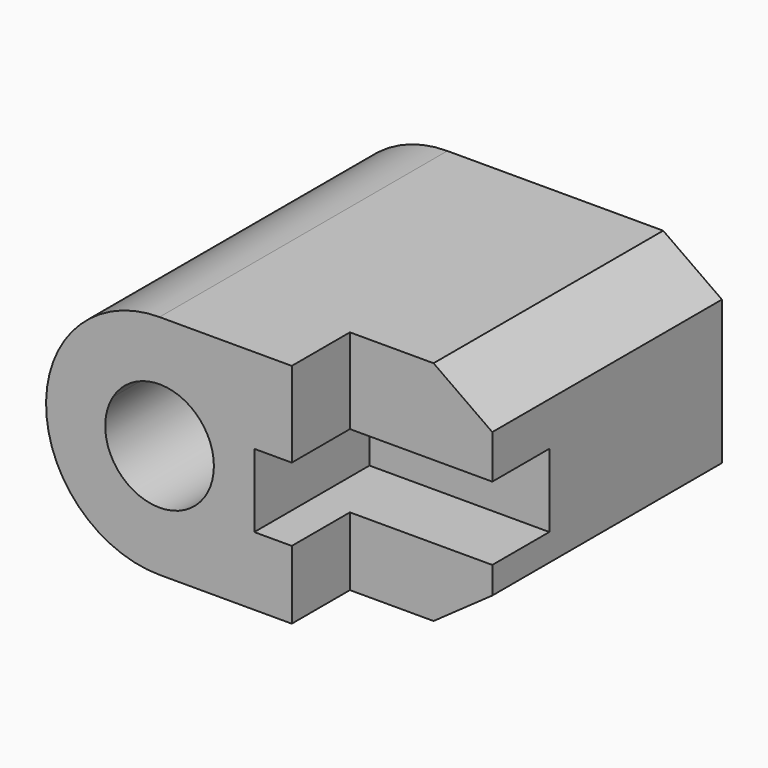
from build123d import *

# Parameters (mm, degrees)
F1_DEPTH = 25
F2_W     = 9.942237
F2_H     = 5.052494
F3_DEPTH = 15.773309
F4_W     = 10.188986
F4_H     = 5.094493
F5_DEPTH = 12.5


with BuildPart() as f1:
    # F0 (on Front) → F1 (new body)
    with BuildSketch(Plane.XZ):
        with BuildLine():
            Line((2.829923, 2.5), (7.479401, 2.5))
            ThreePointArc((7.479401, 2.5), (4.608473, 6.399485), (0, 7.886155))
            ThreePointArc((0, 7.886155), (-4.843936, 6.22316), (-7.64494, 1.935543))
            Line((-7.64494, 1.935543), (-3.242242, 1.935543))
            ThreePointArc((-3.242242, 1.935543), (-0.349506, 3.759828), (2.829923, 2.5))
        make_face()
        with BuildLine():
            Line((19.082905, 2.5), (7.479401, 2.5))
            Line((7.479401, 2.5), (2.829923, 2.5))
            ThreePointArc((2.829923, 2.5), (3.531597, 1.336519), (3.776038, 0))
            ThreePointArc((3.776038, 0), (3.531597, -1.336519), (2.829923, -2.5))
            Line((2.829923, -2.5), (7.479401, -2.5))
            Line((7.479401, -2.5), (19.082905, -2.5))
            Line((19.082905, -2.5), (19.082905, 2.5))
        make_face()
        with BuildLine():
            ThreePointArc((0, 7.886155), (4.608473, 6.399485), (7.479401, 2.5))
            Line((7.479401, 2.5), (19.082905, 2.5))
            Line((19.082905, 2.5), (19.082905, 5))
            Line((19.082905, 5), (15, 7.886155))
            Line((15, 7.886155), (0, 7.886155))
        make_face()
        with BuildLine():
            Line((-3.242242, 1.935543), (-7.64494, 1.935543))
            ThreePointArc((-7.64494, 1.935543), (-7.880668, -0.294115), (-7.479401, -2.5))
            ThreePointArc((-7.479401, -2.5), (-4.608473, -6.399485), (0, -7.886155))
            ThreePointArc((0, -7.886155), (4.608473, -6.399485), (7.479401, -2.5))
            Line((7.479401, -2.5), (2.829923, -2.5))
            ThreePointArc((2.829923, -2.5), (-2.227333, -3.049172), (-3.242242, 1.935543))
        make_face()
        with BuildLine():
            Line((19.082905, -5), (19.082905, -2.5))
            Line((19.082905, -2.5), (7.479401, -2.5))
            ThreePointArc((7.479401, -2.5), (4.608473, -6.399485), (0, -7.886155))
            Line((0, -7.886155), (15, -7.886155))
            Line((15, -7.886155), (19.082905, -5))
        make_face()
    extrude(amount=F1_DEPTH)

    # F2 (on face) → F3 (cut, through all)
    with BuildSketch(Plane.XY.offset(7.886155)):
        with Locations((14.159961, -22.473753)):
            Rectangle(F2_W, F2_H)
    extrude(amount=-F3_DEPTH, mode=Mode.SUBTRACT)

    # F4 (on face) → F5 (cut, symmetric)
    with BuildSketch(Plane.YZ.offset(19.082905)):
        with Locations((-20.086851, -0.580305)):
            Rectangle(F4_W, F4_H)
    extrude(amount=F5_DEPTH, both=True, mode=Mode.SUBTRACT)


solid = f1.part
